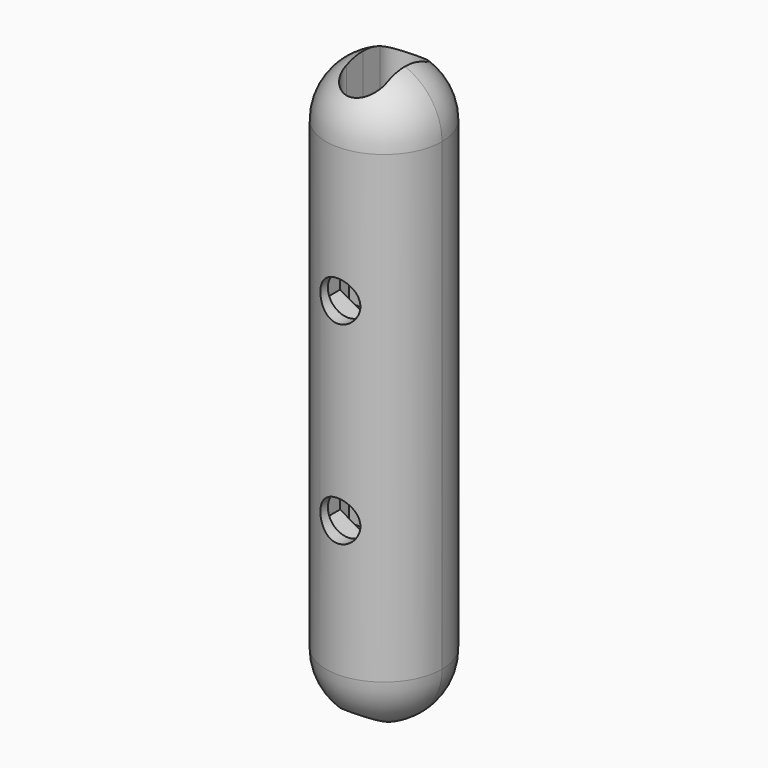
from build123d import *

# Parameters (mm, degrees)
BOX007_W               = 14
BOX007_H               = 2
BOX007_DEPTH           = 14
BOX006_W               = 6.5
BOX006_H               = 6.5
BOX006_DEPTH           = 10
CYLINDER013_R          = 3.25
CYLINDER013_DEPTH      = 10
CYLINDER012_R          = 7
CYLINDER012_DEPTH      = 14
CYLINDER011_R          = 7
CYLINDER011_DEPTH      = 14
CYLINDER010_R          = 7
CYLINDER010_DEPTH      = 16
PRISM003_DEPTH         = 6
BODY003_ROLL_ANGLE     = 90
BODY003_PITCH_ANGLE    = -30
PRISM002_DEPTH         = 6
BODY002_ROLL_ANGLE     = 90
BODY002_PITCH_ANGLE    = -30
CYLINDER009_R          = 3.1
CYLINDER009_DEPTH      = 9
CYLINDER008_R          = 3.1
CYLINDER008_DEPTH      = 9
BOX004_W               = 18
BOX004_H               = 9
BOX004_DEPTH           = 18
BOX005_W               = 18
BOX005_H               = 9
BOX005_DEPTH           = 9
CUT012_PLACEMENT_ANGLE = 180
CYLINDER007_W          = 9
CYLINDER007_H          = 72
CYLINDER007_ANGLE      = 180
CUT023_PLACEMENT_ANGLE = 180
BOX011_W               = 14
BOX011_H               = 2
BOX011_DEPTH           = 14
BOX010_W               = 6.5
BOX010_H               = 6.5
BOX010_DEPTH           = 10
CYLINDER020_R          = 3.25
CYLINDER020_DEPTH      = 10
CYLINDER019_R          = 7
CYLINDER019_DEPTH      = 14
CYLINDER018_R          = 7
CYLINDER018_DEPTH      = 14
CYLINDER017_R          = 7
CYLINDER017_DEPTH      = 16
PRISM005_DEPTH         = 6
BODY005_ROLL_ANGLE     = 90
BODY005_PITCH_ANGLE    = -30
PRISM004_DEPTH         = 6
BODY004_ROLL_ANGLE     = 90
BODY004_PITCH_ANGLE    = -30
CYLINDER016_R          = 6
CYLINDER016_DEPTH      = 9
CYLINDER015_R          = 6
CYLINDER015_DEPTH      = 9
BOX008_W               = 18
BOX008_H               = 9
BOX008_DEPTH           = 18
BOX009_W               = 18
BOX009_H               = 9
BOX009_DEPTH           = 9
CUT024_PLACEMENT_ANGLE = 180
CYLINDER014_W          = 9
CYLINDER014_H          = 72
CYLINDER014_ANGLE      = 180


with BuildPart() as box007:
    # Box007 → Box007 (new body)
    with BuildSketch(Plane(origin=(-7, 0, 8), x_dir=(1, 0, 0), z_dir=(0, 0, 1))):
        with Locations((7, 1)):
            Rectangle(BOX007_W, BOX007_H)
    extrude(amount=BOX007_DEPTH)


with BuildPart() as part_mirroring005:
    # Part__Mirroring005: instance of Box007
    add(box007.part.mirror(Plane(origin=(0, 0, 0), x_dir=(0, 1, 0), z_dir=(0, 0, 1))))


with BuildPart() as cube006:
    # Box006 → Box006 (new body)
    with BuildSketch(Plane(origin=(-3.25, -3.25, 36), x_dir=(1, 0, 0), z_dir=(0, 0, 1))):
        with Locations((3.25, 3.25)):
            Rectangle(BOX006_W, BOX006_H)
    extrude(amount=BOX006_DEPTH)


with BuildPart() as fusion007:
    # Cylinder013 → Cylinder013 (new body)
    with BuildSketch(Plane(origin=(0, 3.5, 36), x_dir=(1, 0, 0), z_dir=(0, 0, 1))):
        Circle(CYLINDER013_R)
    extrude(amount=CYLINDER013_DEPTH)

    # Fusion007: union Cube006
    add(cube006.part)


with BuildPart() as part_mirroring004:
    # Part__Mirroring004: instance of Fusion007
    add(fusion007.part.mirror(Plane(origin=(0, 0, 0), x_dir=(0, 1, 0), z_dir=(0, 0, 1))))


with BuildPart() as cylinder012:
    # Cylinder012 → Cylinder012 (new body)
    with BuildSketch(Plane.XY.offset(22)):
        Circle(CYLINDER012_R)
    extrude(amount=CYLINDER012_DEPTH)


with BuildPart() as cylinder011:
    # Cylinder011 → Cylinder011 (new body)
    with BuildSketch(Plane.XY.offset(-36)):
        Circle(CYLINDER011_R)
    extrude(amount=CYLINDER011_DEPTH)


with BuildPart() as cylinder010:
    # Cylinder010 → Cylinder010 (new body)
    with BuildSketch(Plane.XY.offset(-8)):
        Circle(CYLINDER010_R)
    extrude(amount=CYLINDER010_DEPTH)


with BuildPart() as body003:
    # Prism003 → Prism003 (join)
    with BuildSketch(Plane.XY):
        Polygon((6, 0), (3, 5.196152), (-3, 5.196152), (-6, 0), (-3, -5.196152), (3, -5.196152), align=None)
    extrude(amount=PRISM003_DEPTH)


with BuildPart() as body003_1:
    # Body003 roll: moved
    add(body003.part.rotate(Axis((0, 0, 0), (1, 0, 0)), BODY003_ROLL_ANGLE))


with BuildPart() as body003_2:
    # Body003 pitch: moved
    add(body003_1.part.rotate(Axis((0, 0, 0), (0, 1, 0)), BODY003_PITCH_ANGLE))


with BuildPart() as body003_3:
    # Body003 placement: moved
    add(body003_2.part.moved(Location((0, 7, 15))))


with BuildPart() as body002:
    # Prism002 → Prism002 (join)
    with BuildSketch(Plane.XY):
        Polygon((6, 0), (3, 5.196152), (-3, 5.196152), (-6, 0), (-3, -5.196152), (3, -5.196152), align=None)
    extrude(amount=PRISM002_DEPTH)


with BuildPart() as body002_1:
    # Body002 roll: moved
    add(body002.part.rotate(Axis((0, 0, 0), (1, 0, 0)), BODY002_ROLL_ANGLE))


with BuildPart() as body002_2:
    # Body002 pitch: moved
    add(body002_1.part.rotate(Axis((0, 0, 0), (0, 1, 0)), BODY002_PITCH_ANGLE))


with BuildPart() as body002_3:
    # Body002 placement: moved
    add(body002_2.part.moved(Location((0, 7, -15))))


with BuildPart() as cylinder009:
    # Cylinder009 → Cylinder009 (new body)
    with BuildSketch(Plane(origin=(0, 9, -15), x_dir=(1, 0, 0), z_dir=(0, -1, 0))):
        Circle(CYLINDER009_R)
    extrude(amount=CYLINDER009_DEPTH)


with BuildPart() as cylinder008:
    # Cylinder008 → Cylinder008 (new body)
    with BuildSketch(Plane(origin=(0, 9, 15), x_dir=(1, 0, 0), z_dir=(0, -1, 0))):
        Circle(CYLINDER008_R)
    extrude(amount=CYLINDER008_DEPTH)


with BuildPart() as cube004:
    # Box004 → Box004 (new body)
    with BuildSketch(Plane(origin=(-9, 0, -9), x_dir=(1, 0, 0), z_dir=(0, 0, 1))):
        with Locations((9, 4.5)):
            Rectangle(BOX004_W, BOX004_H)
    extrude(amount=BOX004_DEPTH)


with BuildPart() as fusion004:
    # Box005 → Box005 (new body)
    with BuildSketch(Plane(origin=(-9, -9, -9), x_dir=(1, 0, 0), z_dir=(0, 0, 1))):
        with Locations((9, 4.5)):
            Rectangle(BOX005_W, BOX005_H)
    extrude(amount=BOX005_DEPTH)

    # Fusion004: union Cube004
    add(cube004.part)


with BuildPart() as cut012:
    # Sphere001 → Sphere001 (revolve)
    with BuildSketch(Plane.XZ):
        with BuildLine():
            ThreePointArc((0, -9), (9, 0), (0, 9))
            Line((0, 9), (0, -9))
        make_face()
    revolve(axis=Axis((0, 0, 0), (0, 0, 1)))

    # Cut012: cut Fusion004
    add(fusion004.part, mode=Mode.SUBTRACT)


with BuildPart() as cut012_1:
    # Cut012 placement: moved
    add(cut012.part.moved(Location((0, 0, 36))).rotate(Axis((0, 0, 36), (0, 0, 1)), CUT012_PLACEMENT_ANGLE))


with BuildPart() as part_mirroring003:
    # Part__Mirroring003: instance of Cut012
    add(cut012_1.part.mirror(Plane(origin=(0, 0, 0), x_dir=(0, 1, 0), z_dir=(0, 0, 1))))


with BuildPart() as cut019:
    # Cylinder007 → Cylinder007 (revolve)
    with BuildSketch(Plane(origin=(0, 0, -36), x_dir=(1, 0, 0), z_dir=(0, -1, 0))):
        with Locations((4.5, 36)):
            Rectangle(CYLINDER007_W, CYLINDER007_H)
    revolve(axis=Axis((0, 0, -36), (0, 0, 1)), revolution_arc=CYLINDER007_ANGLE)

    # Fusion005: union Part__Mirroring003
    add(part_mirroring003.part)

    # Cut013: cut Cylinder008
    add(cylinder008.part, mode=Mode.SUBTRACT)

    # Cut014: cut Cylinder009
    add(cylinder009.part, mode=Mode.SUBTRACT)

    # Cut015: cut Body002
    add(body002_3.part, mode=Mode.SUBTRACT)

    # Cut016: cut Body003
    add(body003_3.part, mode=Mode.SUBTRACT)

    # Cut017: cut Cylinder010
    add(cylinder010.part, mode=Mode.SUBTRACT)

    # Cut018: cut Cylinder011
    add(cylinder011.part, mode=Mode.SUBTRACT)

    # Cut019: cut Cylinder012
    add(cylinder012.part, mode=Mode.SUBTRACT)


with BuildPart() as top:
    # Fusion006 base: copy of Cut012
    add(cut012_1.part)

    # Fusion006: union Cut019
    add(cut019.part)

    # Cut020: cut Fusion007
    add(fusion007.part, mode=Mode.SUBTRACT)

    # Cut021: cut Part__Mirroring004
    add(part_mirroring004.part, mode=Mode.SUBTRACT)

    # Cut022: cut Box007
    add(box007.part, mode=Mode.SUBTRACT)

    # Cut023: cut Part__Mirroring005
    add(part_mirroring005.part, mode=Mode.SUBTRACT)


with BuildPart() as top_1:
    # Cut023 placement: moved
    add(top.part.rotate(Axis((0, 0, 0), (0, 0, 1)), CUT023_PLACEMENT_ANGLE))


with BuildPart() as box011:
    # Box011 → Box011 (new body)
    with BuildSketch(Plane(origin=(-7, 0, 8), x_dir=(1, 0, 0), z_dir=(0, 0, 1))):
        with Locations((7, 1)):
            Rectangle(BOX011_W, BOX011_H)
    extrude(amount=BOX011_DEPTH)


with BuildPart() as part_mirroring008:
    # Part__Mirroring008: instance of Box011
    add(box011.part.mirror(Plane(origin=(0, 0, 0), x_dir=(0, 1, 0), z_dir=(0, 0, 1))))


with BuildPart() as cube009:
    # Box010 → Box010 (new body)
    with BuildSketch(Plane(origin=(-3.25, -3.25, 36), x_dir=(1, 0, 0), z_dir=(0, 0, 1))):
        with Locations((3.25, 3.25)):
            Rectangle(BOX010_W, BOX010_H)
    extrude(amount=BOX010_DEPTH)


with BuildPart() as fusion011:
    # Cylinder020 → Cylinder020 (new body)
    with BuildSketch(Plane(origin=(0, 3.5, 36), x_dir=(1, 0, 0), z_dir=(0, 0, 1))):
        Circle(CYLINDER020_R)
    extrude(amount=CYLINDER020_DEPTH)

    # Fusion011: union Cube009
    add(cube009.part)


with BuildPart() as part_mirroring007:
    # Part__Mirroring007: instance of Fusion011
    add(fusion011.part.mirror(Plane(origin=(0, 0, 0), x_dir=(0, 1, 0), z_dir=(0, 0, 1))))


with BuildPart() as cylinder019:
    # Cylinder019 → Cylinder019 (new body)
    with BuildSketch(Plane.XY.offset(22)):
        Circle(CYLINDER019_R)
    extrude(amount=CYLINDER019_DEPTH)


with BuildPart() as cylinder018:
    # Cylinder018 → Cylinder018 (new body)
    with BuildSketch(Plane.XY.offset(-36)):
        Circle(CYLINDER018_R)
    extrude(amount=CYLINDER018_DEPTH)


with BuildPart() as cylinder017:
    # Cylinder017 → Cylinder017 (new body)
    with BuildSketch(Plane.XY.offset(-8)):
        Circle(CYLINDER017_R)
    extrude(amount=CYLINDER017_DEPTH)


with BuildPart() as body005:
    # Prism005 → Prism005 (join)
    with BuildSketch(Plane.XY):
        Polygon((6, 0), (3, 5.196152), (-3, 5.196152), (-6, 0), (-3, -5.196152), (3, -5.196152), align=None)
    extrude(amount=PRISM005_DEPTH)


with BuildPart() as body005_1:
    # Body005 roll: moved
    add(body005.part.rotate(Axis((0, 0, 0), (1, 0, 0)), BODY005_ROLL_ANGLE))


with BuildPart() as body005_2:
    # Body005 pitch: moved
    add(body005_1.part.rotate(Axis((0, 0, 0), (0, 1, 0)), BODY005_PITCH_ANGLE))


with BuildPart() as body005_3:
    # Body005 placement: moved
    add(body005_2.part.moved(Location((0, 7, 15))))


with BuildPart() as body004:
    # Prism004 → Prism004 (join)
    with BuildSketch(Plane.XY):
        Polygon((6, 0), (3, 5.196152), (-3, 5.196152), (-6, 0), (-3, -5.196152), (3, -5.196152), align=None)
    extrude(amount=PRISM004_DEPTH)


with BuildPart() as body004_1:
    # Body004 roll: moved
    add(body004.part.rotate(Axis((0, 0, 0), (1, 0, 0)), BODY004_ROLL_ANGLE))


with BuildPart() as body004_2:
    # Body004 pitch: moved
    add(body004_1.part.rotate(Axis((0, 0, 0), (0, 1, 0)), BODY004_PITCH_ANGLE))


with BuildPart() as body004_3:
    # Body004 placement: moved
    add(body004_2.part.moved(Location((0, 7, -15))))


with BuildPart() as cylinder016:
    # Cylinder016 → Cylinder016 (new body)
    with BuildSketch(Plane(origin=(0, 9, -15), x_dir=(1, 0, 0), z_dir=(0, -1, 0))):
        Circle(CYLINDER016_R)
    extrude(amount=CYLINDER016_DEPTH)


with BuildPart() as cylinder015:
    # Cylinder015 → Cylinder015 (new body)
    with BuildSketch(Plane(origin=(0, 9, 15), x_dir=(1, 0, 0), z_dir=(0, -1, 0))):
        Circle(CYLINDER015_R)
    extrude(amount=CYLINDER015_DEPTH)


with BuildPart() as cube007:
    # Box008 → Box008 (new body)
    with BuildSketch(Plane(origin=(-9, 0, -9), x_dir=(1, 0, 0), z_dir=(0, 0, 1))):
        with Locations((9, 4.5)):
            Rectangle(BOX008_W, BOX008_H)
    extrude(amount=BOX008_DEPTH)


with BuildPart() as fusion008:
    # Box009 → Box009 (new body)
    with BuildSketch(Plane(origin=(-9, -9, -9), x_dir=(1, 0, 0), z_dir=(0, 0, 1))):
        with Locations((9, 4.5)):
            Rectangle(BOX009_W, BOX009_H)
    extrude(amount=BOX009_DEPTH)

    # Fusion008: union Cube007
    add(cube007.part)


with BuildPart() as cut024:
    # Sphere002 → Sphere002 (revolve)
    with BuildSketch(Plane.XZ):
        with BuildLine():
            ThreePointArc((0, -9), (9, 0), (0, 9))
            Line((0, 9), (0, -9))
        make_face()
    revolve(axis=Axis((0, 0, 0), (0, 0, 1)))

    # Cut024: cut Fusion008
    add(fusion008.part, mode=Mode.SUBTRACT)


with BuildPart() as cut024_1:
    # Cut024 placement: moved
    add(cut024.part.moved(Location((0, 0, 36))).rotate(Axis((0, 0, 36), (0, 0, 1)), CUT024_PLACEMENT_ANGLE))


with BuildPart() as part_mirroring006:
    # Part__Mirroring006: instance of Cut024
    add(cut024_1.part.mirror(Plane(origin=(0, 0, 0), x_dir=(0, 1, 0), z_dir=(0, 0, 1))))


with BuildPart() as cut031:
    # Cylinder014 → Cylinder014 (revolve)
    with BuildSketch(Plane(origin=(0, 0, -36), x_dir=(1, 0, 0), z_dir=(0, -1, 0))):
        with Locations((4.5, 36)):
            Rectangle(CYLINDER014_W, CYLINDER014_H)
    revolve(axis=Axis((0, 0, -36), (0, 0, 1)), revolution_arc=CYLINDER014_ANGLE)

    # Fusion009: union Part__Mirroring006
    add(part_mirroring006.part)

    # Cut025: cut Cylinder015
    add(cylinder015.part, mode=Mode.SUBTRACT)

    # Cut026: cut Cylinder016
    add(cylinder016.part, mode=Mode.SUBTRACT)

    # Cut027: cut Body004
    add(body004_3.part, mode=Mode.SUBTRACT)

    # Cut028: cut Body005
    add(body005_3.part, mode=Mode.SUBTRACT)

    # Cut029: cut Cylinder017
    add(cylinder017.part, mode=Mode.SUBTRACT)

    # Cut030: cut Cylinder018
    add(cylinder018.part, mode=Mode.SUBTRACT)

    # Cut031: cut Cylinder019
    add(cylinder019.part, mode=Mode.SUBTRACT)


with BuildPart() as bottom:
    # Fusion010 base: copy of Cut024
    add(cut024_1.part)

    # Fusion010: union Cut031
    add(cut031.part)

    # Cut032: cut Fusion011
    add(fusion011.part, mode=Mode.SUBTRACT)

    # Cut033: cut Part__Mirroring007
    add(part_mirroring007.part, mode=Mode.SUBTRACT)

    # Cut034: cut Box011
    add(box011.part, mode=Mode.SUBTRACT)

    # Cut035: cut Part__Mirroring008
    add(part_mirroring008.part, mode=Mode.SUBTRACT)


solid = Compound([top_1.part, bottom.part])
